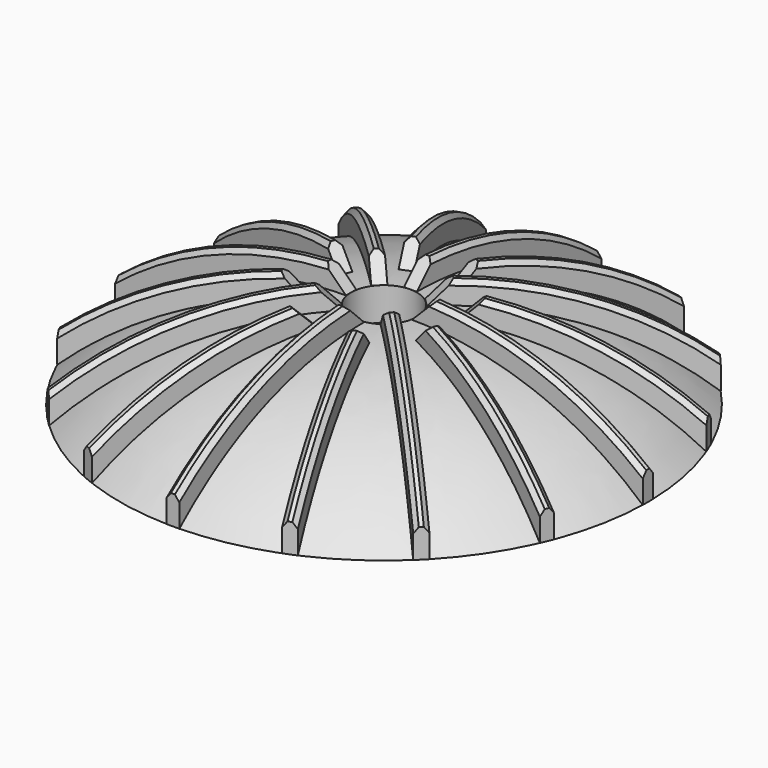
from build123d import *

# Parameters (mm, degrees)
F3_DEPTH  = 1.45
F4_SIZE   = 1
F5_COUNT  = 8
F10_DEPTH = 1.45
F11_SIZE  = 1
F12_COUNT = 8


with BuildPart() as f1:
    # F0 (on Right) → F1 (revolve)
    with BuildSketch(Plane.YZ):
        with BuildLine():
            ThreePointArc((-7.5, 20), (-35.590256, 14.830673), (-60, 0))
            Line((-60, 0), (-47.859711, 0))
            ThreePointArc((-47.859711, 0), (-32.183414, 8.09809), (-15, 12.105035))
            Line((-15, 12.105035), (-15, 5))
            Line((-15, 5), (-12.5, 5))
            Line((-12.5, 5), (-12.5, 0))
            Line((-12.5, 0), (-5, 0))
            Line((-5, 0), (-5, 12.5))
            Line((-5, 12.5), (-7.5, 12.5))
            Line((-7.5, 12.5), (-7.5, 20))
        make_face()
    revolve(axis=Axis((0, 0, -0.132743), (0, 0, -1)))


with BuildPart() as f3:
    # F2 (on Right) → F3 (new body, symmetric)
    with BuildSketch(Plane.YZ):
        with BuildLine():
            Line((-7.5, 20), (-12.359179, 24.859179))
            ThreePointArc((-12.359179, 24.859179), (-37.605833, 19.412953), (-60, 6.54609))
            Line((-60, 6.54609), (-60, 0))
            Line((-60, 0), (-55.372879, 0))
            ThreePointArc((-55.372879, 0), (-32.900849, 12.623853), (-7.5, 17))
            Line((-7.5, 17), (-7.5, 20))
        make_face()
    extrude(amount=F3_DEPTH, both=True)

    # F4
    f4_edges = [f3.edges().sort_by_distance(p)[0] for p in [
        (-1.45, -37.605833, 19.412953),
        (1.45, -37.605833, 19.412953),
    ]]
    chamfer(f4_edges, length=F4_SIZE)


with BuildPart() as f5_1:
    # F5: instance of F3
    add(f3.part.rotate(Axis((0, 0, 12.5), (0, 0, 1)), 1 * 360 / F5_COUNT))


with BuildPart() as f5_2:
    # F5: instance of F3
    add(f3.part.rotate(Axis((0, 0, 12.5), (0, 0, 1)), 2 * 360 / F5_COUNT))


with BuildPart() as f5_3:
    # F5: instance of F3
    add(f3.part.rotate(Axis((0, 0, 12.5), (0, 0, 1)), 3 * 360 / F5_COUNT))


with BuildPart() as f5_4:
    # F5: instance of F3
    add(f3.part.rotate(Axis((0, 0, 12.5), (0, 0, 1)), 4 * 360 / F5_COUNT))


with BuildPart() as f5_5:
    # F5: instance of F3
    add(f3.part.rotate(Axis((0, 0, 12.5), (0, 0, 1)), 5 * 360 / F5_COUNT))


with BuildPart() as f5_6:
    # F5: instance of F3
    add(f3.part.rotate(Axis((0, 0, 12.5), (0, 0, 1)), 6 * 360 / F5_COUNT))


with BuildPart() as f5_7:
    # F5: instance of F3
    add(f3.part.rotate(Axis((0, 0, 12.5), (0, 0, 1)), 7 * 360 / F5_COUNT))


with BuildPart() as f1_1:
    add(f1.part)

    # F6: union F3, F5_1, F5_2, F5_3, F5_4, F5_5, F5_6, F5_7
    add(f3.part)
    add(f5_1.part)
    add(f5_2.part)
    add(f5_3.part)
    add(f5_4.part)
    add(f5_5.part)
    add(f5_6.part)
    add(f5_7.part)


with BuildPart() as f10:
    # F9 (on face) → F10 (new body, symmetric)
    with BuildSketch(Plane(origin=(3e-06, 7e-06, 0), x_dir=(0.92388, -0.382683, 0), z_dir=(-0.382683, -0.92388, 0))):
        with BuildLine():
            ThreePointArc((-60, 0), (-38.74013, 13.552363), (-14.290874, 19.707237))
            Line((-14.290874, 19.707237), (-18.816942, 24.233305))
            ThreePointArc((-18.816942, 24.233305), (-40.611326, 18.190435), (-60, 6.54609))
            Line((-60, 6.54609), (-60, 0))
        make_face()
    extrude(amount=F10_DEPTH, both=True)

    # F11
    f11_edges = [f10.edges().sort_by_distance(p)[0] for p in [
        (-36.965081, 16.880909, 18.190435),
        (-38.074863, 14.201658, 18.190435),
    ]]
    chamfer(f11_edges, length=F11_SIZE)


with BuildPart() as f12_1:
    # F12: instance of F10
    add(f10.part.rotate(Axis((0, 0, 12.5), (0, 0, 1)), 1 * 360 / F12_COUNT))


with BuildPart() as f12_2:
    # F12: instance of F10
    add(f10.part.rotate(Axis((0, 0, 12.5), (0, 0, 1)), 2 * 360 / F12_COUNT))


with BuildPart() as f12_3:
    # F12: instance of F10
    add(f10.part.rotate(Axis((0, 0, 12.5), (0, 0, 1)), 3 * 360 / F12_COUNT))


with BuildPart() as f12_4:
    # F12: instance of F10
    add(f10.part.rotate(Axis((0, 0, 12.5), (0, 0, 1)), 4 * 360 / F12_COUNT))


with BuildPart() as f12_5:
    # F12: instance of F10
    add(f10.part.rotate(Axis((0, 0, 12.5), (0, 0, 1)), 5 * 360 / F12_COUNT))


with BuildPart() as f12_6:
    # F12: instance of F10
    add(f10.part.rotate(Axis((0, 0, 12.5), (0, 0, 1)), 6 * 360 / F12_COUNT))


with BuildPart() as f12_7:
    # F12: instance of F10
    add(f10.part.rotate(Axis((0, 0, 12.5), (0, 0, 1)), 7 * 360 / F12_COUNT))


solid = Compound([f1_1.part, f10.part, f12_1.part, f12_2.part, f12_3.part, f12_4.part, f12_5.part, f12_6.part, f12_7.part])
